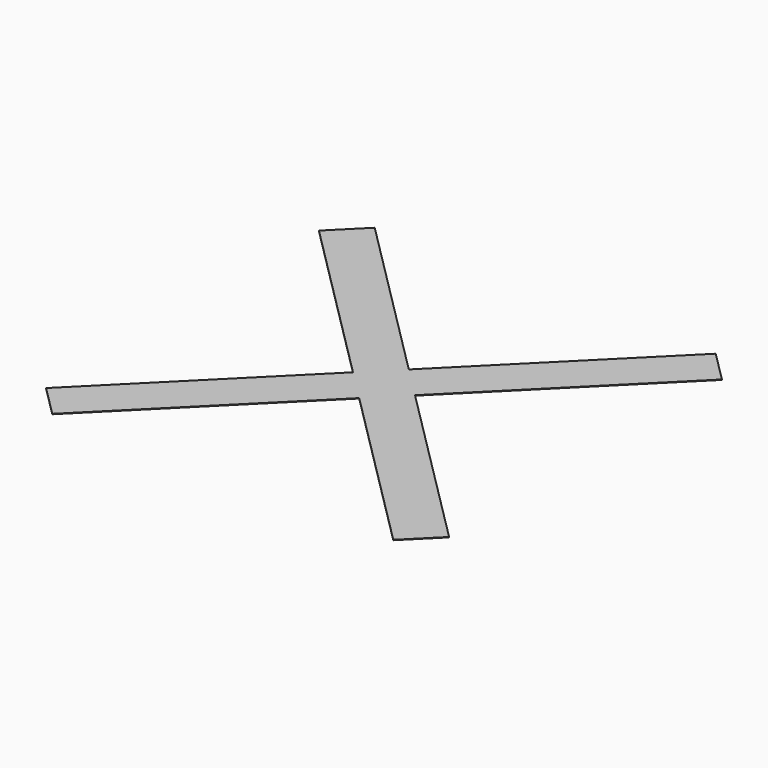
from build123d import *

# Parameters (mm, degrees)
PAD_DEPTH          = 0.2
POLARPATTERN_COUNT = 4


with BuildPart() as part:
    # Sketch → Pad (new body)
    with BuildSketch(Plane(origin=(0, 0, 0), x_dir=(0.707107, 0.707107, 0), z_dir=(0, 0, 1))):
        Polygon((0, 120), (10, 120), (10, 10), (120, 10), (120, 0), (0, 0), align=None)
    pad = extrude(amount=PAD_DEPTH)

    # PolarPattern: Pad ×4 about axis
    polarpattern_axis = Axis((0, 0, 0), (0, 0, 1))
    for i in range(1, POLARPATTERN_COUNT):
        add(pad.rotate(polarpattern_axis, i * 360 / POLARPATTERN_COUNT))


solid = part.part
